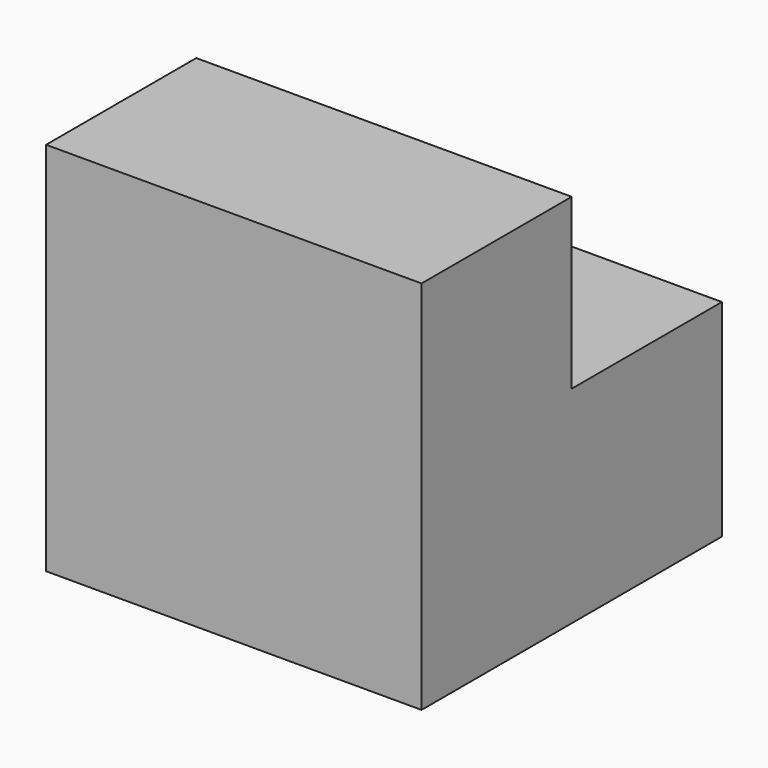
from build123d import *

# Parameters (mm, degrees)
F1_DEPTH = 100


with BuildPart() as f1:
    # F0 (on Right) → F1 (new body)
    with BuildSketch(Plane.YZ):
        with BuildLine():
            Line((50, 100), (0, 100))
            Line((0, 100), (0, 0))
            Line((0, 0), (36.25, 0))
            ThreePointArc((36.25, 0), (50, 13.75), (63.75, 0))
            Line((63.75, 0), (100, 0))
            Line((100, 0), (100, 55))
            Line((100, 55), (50, 55))
            Line((50, 55), (50, 100))
        make_face()
        with BuildLine():
            ThreePointArc((63.75, 0), (50, 13.75), (36.25, 0))
            Line((36.25, 0), (63.75, 0))
        make_face()
    extrude(amount=F1_DEPTH)


solid = f1.part
